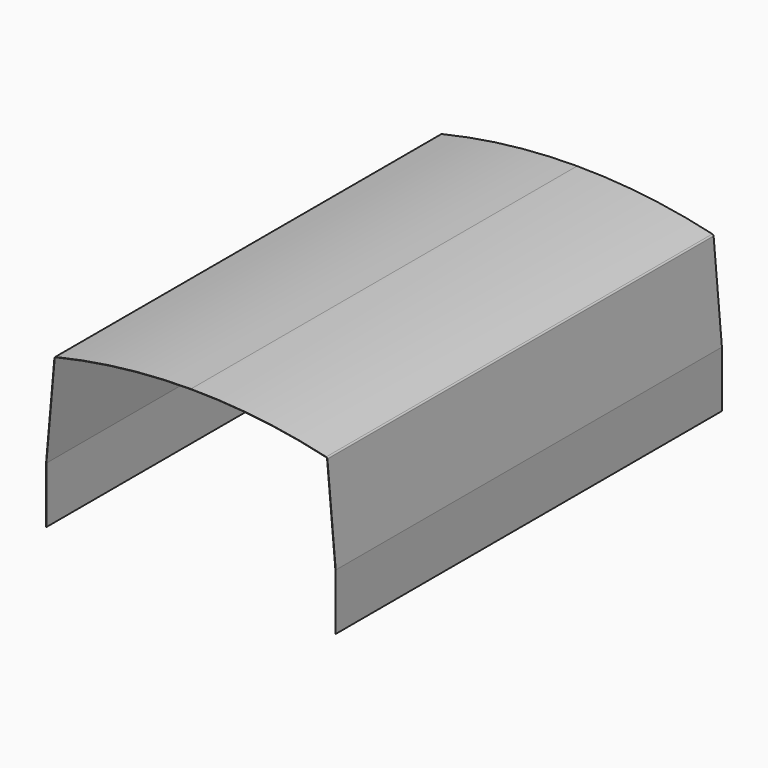
from build123d import *

# Parameters (mm, degrees)
F2_DEPTH      = 1500
F2_DEPTH_BACK = 1500
F3_R          = 10
F4_R          = 10
F5_R          = 10
F6_R          = 10


with BuildPart() as f2:
    # F1 (on Front) → F2 (new body, two sides)
    with BuildSketch(Plane.XZ) as f2_sk:
        with BuildLine():
            Line((-900, 350), (-900, 0))
            Line((-900, 0), (-898, 0))
            Line((-898, 0), (-898, 349.912678))
            Line((-898, 349.912678), (-845.83978, 946.106722))
            ThreePointArc((-845.83978, 946.106722), (-425.842431, 1020.728548), (0, 1045.716819))
            ThreePointArc((0, 1045.716819), (425.842431, 1020.728548), (845.83978, 946.106722))
            Line((845.83978, 946.106722), (898, 349.912678))
            Line((898, 349.912678), (898, 0))
            Line((898, 0), (900, 0))
            Line((900, 0), (900, 350))
            Line((900, 350), (847.706554, 947.716819))
            ThreePointArc((847.706554, 947.716819), (426.792222, 1022.630445), (0, 1047.716819))
            ThreePointArc((0, 1047.716819), (-426.792222, 1022.630445), (-847.706554, 947.716819))
            Line((-847.706554, 947.716819), (-900, 350))
        make_face()
    extrude(amount=F2_DEPTH)
    extrude(f2_sk.sketch, amount=-F2_DEPTH_BACK)

    # F3
    f3_edges = [f2.edges().sort_by_distance(p)[0] for p in [
        (-845.83978, 0, 946.106722),
    ]]
    fillet(f3_edges, radius=F3_R)

    # F4
    f4_edges = [f2.edges().sort_by_distance(p)[0] for p in [
        (-847.706554, 0, 947.716819),
    ]]
    fillet(f4_edges, radius=F4_R)

    # F5
    f5_edges = [f2.edges().sort_by_distance(p)[0] for p in [
        (847.706554, 0, 947.716819),
    ]]
    fillet(f5_edges, radius=F5_R)

    # F6
    f6_edges = [f2.edges().sort_by_distance(p)[0] for p in [
        (845.83978, 0, 946.106722),
    ]]
    fillet(f6_edges, radius=F6_R)


solid = f2.part
